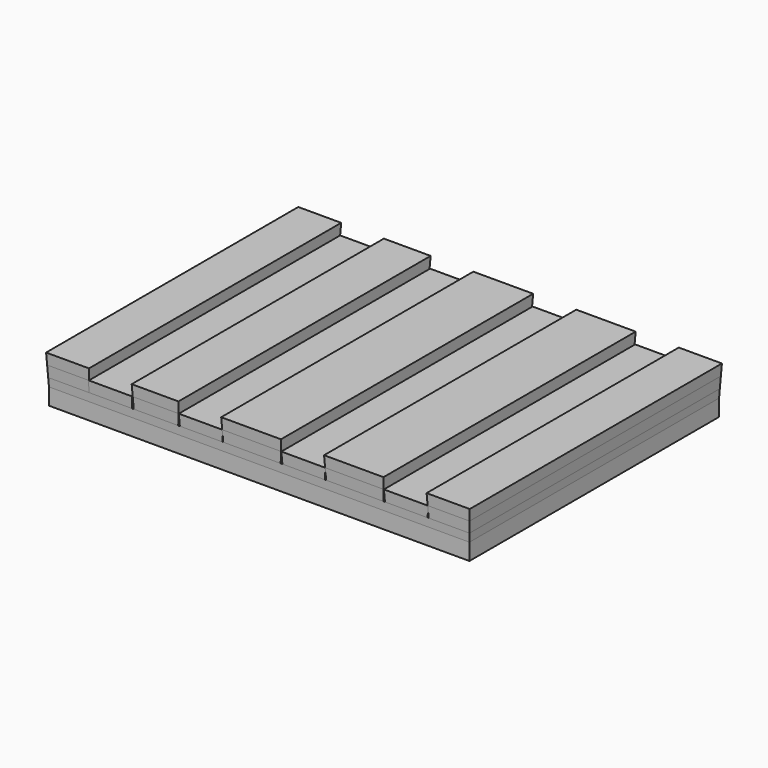
from build123d import *

# Parameters (mm, degrees)
F0_W      = 76.1363953352
F0_H      = 56.5012171865
F1_DEPTH  = 3
F2_W      = 76.1363953352
F2_H      = 56.5012171865
F3_DEPTH  = 1.5
F3_TAPER  = -3
F4_W      = 76.293618673
F4_H      = 56.6584405243
F5_DEPTH  = 2
F5_TAPER  = -3
F6_W      = 7.9422779381
F6_H      = 56.8680716414
F7_DEPTH  = 2
F7_TAPER  = -3
F8_W      = 7.9422742128
F8_H      = 56.8680716414
F9_DEPTH  = 2
F9_TAPER  = -3
F10_W     = 8.0143567175
F10_H     = 56.8680716414
F11_DEPTH = 2
F11_TAPER = -3
F12_W     = 8.0169183202
F12_H     = 56.8680716414
F13_DEPTH = 2
F13_TAPER = -3
F14_W     = 7.5598000417
F14_H     = 56.8680716414
F15_DEPTH = 2
F15_TAPER = -3
F16_W     = 8.2599669695
F16_H     = 56.8680716414
F17_DEPTH = 2
F17_TAPER = -3
F18_W     = 7.7349804342
F18_H     = 56.6584405243
F19_DEPTH = 2
F19_TAPER = -3
F20_W     = 7.7472105622
F20_H     = 56.6584405243
F21_DEPTH = 2
F21_TAPER = -3
F22_W     = 10.6159038842
F22_H     = 56.8680716414
F23_DEPTH = 2
F23_TAPER = -3
F24_W     = 7.7472124249
F24_H     = 56.6584405243
F25_DEPTH = 2
F25_TAPER = -3
F26_W     = 10.5499308556
F26_H     = 56.8680716414
F27_DEPTH = 2
F27_TAPER = -3
F28_W     = 7.7472133562
F28_H     = 56.6584405243
F29_DEPTH = 2
F29_TAPER = -3
F30_W     = 7.6018208506
F30_H     = 56.8680716414
F31_DEPTH = 2
F31_TAPER = -3


with BuildPart() as f1:
    # F0 (on Top) → F1 (new body)
    with BuildSketch(Plane.XY):
        with Locations((-38.0681976676, 28.2506085932)):
            Rectangle(F0_W, F0_H)
    extrude(amount=F1_DEPTH)


with BuildPart() as f3:
    # F2 (on face) → F3 (new body)
    with BuildSketch(Plane.XY.offset(3)):
        with Locations((-38.0681976676, 28.2506085932)):
            Rectangle(F2_W, F2_H)
    extrude(amount=F3_DEPTH, taper=F3_TAPER)


with BuildPart() as f5:
    # F4 (on face) → F5 (new body)
    with BuildSketch(Plane.XY.offset(4.5)):
        with Locations((-38.0681976676, 28.2506085932)):
            Rectangle(F4_W, F4_H)
    extrude(amount=F5_DEPTH, taper=F5_TAPER)

    # F6 (on face) → F7 (cut)
    with BuildSketch(Plane.XY.offset(6.5)):
        with Locations((-64.788883552, 28.2506085932)):
            Rectangle(F6_W, F6_H)
    extrude(amount=-F7_DEPTH, taper=F7_TAPER, mode=Mode.SUBTRACT)

    # F8 (on face) → F9 (cut)
    with BuildSketch(Plane.XY.offset(6.5)):
        with Locations((-48.586640507, 28.2506085932)):
            Rectangle(F8_W, F8_H)
    extrude(amount=-F9_DEPTH, taper=F9_TAPER, mode=Mode.SUBTRACT)

    # F10 (on face) → F11 (cut)
    with BuildSketch(Plane.XY.offset(6.5)):
        with Locations((-29.9924211577, 28.2506085932)):
            Rectangle(F10_W, F10_H)
    extrude(amount=-F11_DEPTH, taper=F11_TAPER, mode=Mode.SUBTRACT)

    # F12 (on face) → F13 (cut)
    with BuildSketch(Plane.XY.offset(6.5)):
        with Locations((-11.4268527832, 28.2506085932)):
            Rectangle(F12_W, F12_H)
    extrude(amount=-F13_DEPTH, taper=F13_TAPER, mode=Mode.SUBTRACT)


with BuildPart() as f15:
    # F14 (on face) → F15 (new body)
    with BuildSketch(Plane.XY.offset(6.5)):
        with Locations((-72.5399225419, 28.2506085932)):
            Rectangle(F14_W, F14_H)
    extrude(amount=F15_DEPTH, taper=F15_TAPER)


with BuildPart() as f17:
    # F16 (on face) → F17 (new body)
    with BuildSketch(Plane.XY.offset(6.5)):
        with Locations((-56.6877610981, 28.2506085932)):
            Rectangle(F16_W, F16_H)
    extrude(amount=F17_DEPTH, taper=F17_TAPER)


with BuildPart() as f19:
    # F18 (on face) → F19 (new body)
    with BuildSketch(Plane.XY.offset(4.5)):
        with Locations((-64.9076793343, 28.2506085932)):
            Rectangle(F18_W, F18_H)
    extrude(amount=F19_DEPTH, taper=F19_TAPER)


with BuildPart() as f21:
    # F20 (on face) → F21 (new body)
    with BuildSketch(Plane.XY.offset(4.5)):
        with Locations((-48.4954491258, 28.2506085932)):
            Rectangle(F20_W, F20_H)
    extrude(amount=F21_DEPTH, taper=F21_TAPER)


with BuildPart() as f23:
    # F22 (on face) → F23 (new body)
    with BuildSketch(Plane.XY.offset(6.5)):
        with Locations((-39.3075514585, 28.2506085932)):
            Rectangle(F22_W, F22_H)
    extrude(amount=F23_DEPTH, taper=F23_TAPER)


with BuildPart() as f25:
    # F24 (on face) → F25 (new body)
    with BuildSketch(Plane.XY.offset(4.5)):
        with Locations((-29.9288546667, 28.2506085932)):
            Rectangle(F24_W, F24_H)
    extrude(amount=F25_DEPTH, taper=F25_TAPER)


with BuildPart() as f27:
    # F26 (on face) → F27 (new body)
    with BuildSketch(Plane.XY.offset(6.5)):
        with Locations((-20.7102773711, 28.2506085932)):
            Rectangle(F26_W, F26_H)
    extrude(amount=F27_DEPTH, taper=F27_TAPER)


with BuildPart() as f29:
    # F28 (on face) → F29 (new body)
    with BuildSketch(Plane.XY.offset(4.5)):
        with Locations((-11.3622588105, 28.2506085932)):
            Rectangle(F28_W, F28_H)
    extrude(amount=F29_DEPTH, taper=F29_TAPER)


with BuildPart() as f31:
    # F30 (on face) → F31 (new body)
    with BuildSketch(Plane.XY.offset(6.5)):
        with Locations((-3.6174831978, 28.2506085932)):
            Rectangle(F30_W, F30_H)
    extrude(amount=F31_DEPTH, taper=F31_TAPER)


solid = Compound([f1.part, f3.part, f5.part, f15.part, f17.part, f19.part, f21.part, f23.part, f25.part, f27.part, f29.part, f31.part])
